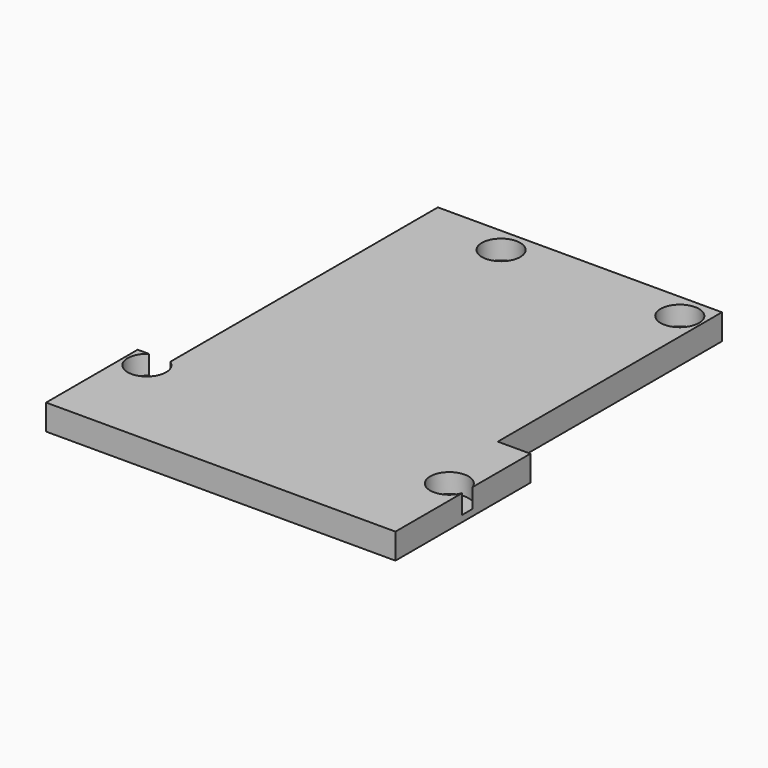
from build123d import *

# Parameters (mm, degrees)
F0_R     = 1.55
F1_DEPTH = 4
F2_R     = 3
F3_DEPTH = 3


with BuildPart() as f1:
    # F0 (on Top) → F1 (new body)
    with BuildSketch(Plane.XY):
        Polygon((25.166199, 37.371666), (-19.243801, 37.371666), (-19.243801, -14.908334), (-24.348801, -14.908334), (-24.348801, -32.808334), (30.271199, -32.808334), (30.271199, -6.428334), (25.166199, -6.428334), align=None)
        with Locations((-20.908801, -17.408334)):
            Circle(F0_R, mode=Mode.SUBTRACT)
        with Locations((27.351199, -18.678334)):
            Circle(F0_R, mode=Mode.SUBTRACT)
        with Locations((-6.183801, 33.401666)):
            Circle(F0_R, mode=Mode.SUBTRACT)
        with Locations((21.756199, 33.401666)):
            Circle(F0_R, mode=Mode.SUBTRACT)
    extrude(amount=F1_DEPTH)

    # F2 (on face) → F3 (cut)
    with BuildSketch(Plane.XY.offset(4)):
        with Locations((-20.908801, -17.408334)):
            Circle(F2_R)
        with Locations((27.452319, -18.754228)):
            Circle(F2_R)
        with Locations((-6.183801, 33.401666)):
            Circle(F2_R)
        with Locations((21.756199, 33.401666)):
            Circle(F2_R)
    extrude(amount=-F3_DEPTH, mode=Mode.SUBTRACT)


solid = f1.part
